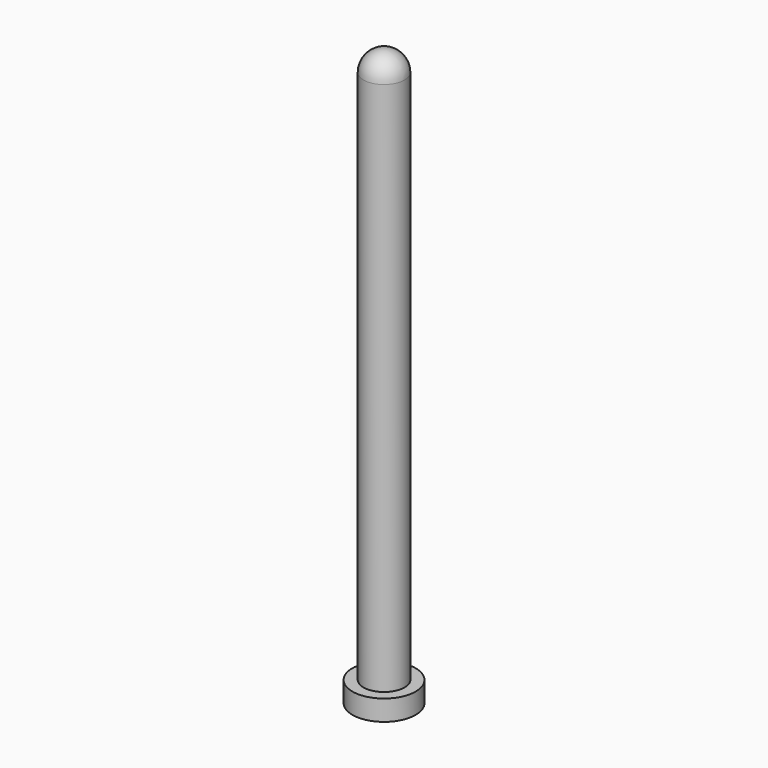
from build123d import *

# Parameters (mm, degrees)
F0_R      = 2
F1_DEPTH  = 56
F0_R_2    = 3.0739118257
F1_FACE_R = 2
F2_DEPTH  = 2
F3_R      = 2


with BuildPart() as f1:
    # F0 (on Top) → F1 (new body)
    with BuildSketch(Plane.XY):
        Circle(F0_R)
    extrude(amount=F1_DEPTH)

    # F0 (on Top) + F1_face (on face) → F2 (join)
    with BuildSketch(Plane.XY):
        Circle(F0_R_2)
        Circle(F0_R, mode=Mode.SUBTRACT)
    with BuildSketch(Plane(origin=(0, 0, 0), x_dir=(1, 0, 0), z_dir=(0, 0, -1))):
        Circle(F1_FACE_R)
    extrude(amount=F2_DEPTH, dir=(0, 0, 1))

    # F3
    f3_edges = [f1.edges().sort_by_distance(p)[0] for p in [
        (-2, 0, 56),
    ]]
    fillet(f3_edges, radius=F3_R)


solid = f1.part
